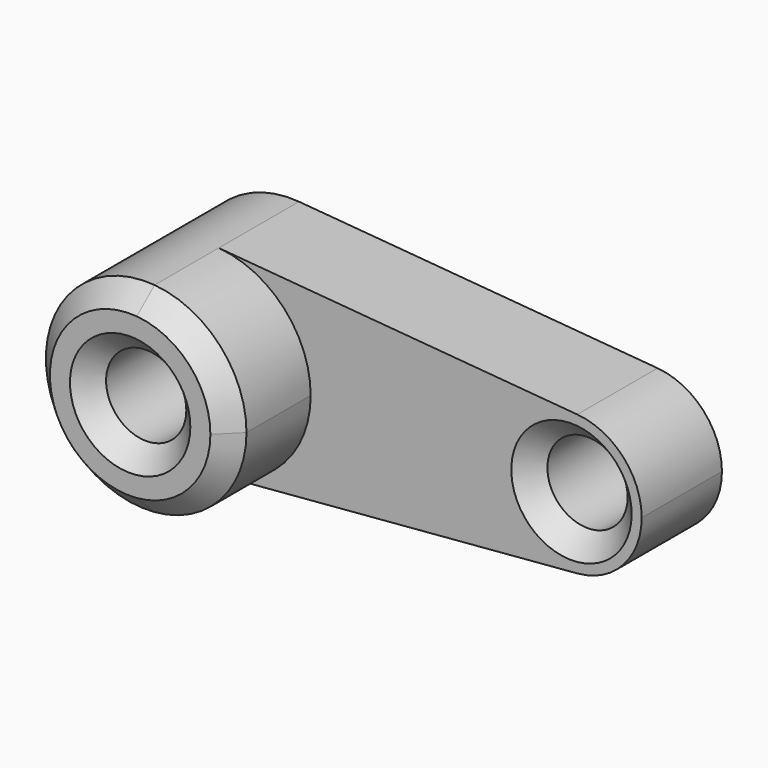
from build123d import *

# Parameters (mm, degrees)
F0_R     = 10
F1_DEPTH = 25
F2_DEPTH = 50
F3_SIZE  = 5


with BuildPart() as f1:
    # F0 (on Front) → F1 (new body)
    with BuildSketch(Plane.XZ):
        with BuildLine():
            ThreePointArc((2.083333, 24.913043), (18.399502, 16.92508), (25, 0))
            ThreePointArc((25, 0), (18.399502, -16.92508), (2.083333, -24.913043))
            Line((2.083333, -24.913043), (91.458333, -17.43913))
            ThreePointArc((91.458333, -17.43913), (72.5, 0), (91.458333, 17.43913))
            Line((91.458333, 17.43913), (2.083333, 24.913043))
        make_face()
        with BuildLine():
            ThreePointArc((107.5, 0), (102.879651, 11.847556), (91.458333, 17.43913))
            ThreePointArc((91.458333, 17.43913), (72.5, 0), (91.458333, -17.43913))
            ThreePointArc((91.458333, -17.43913), (102.879651, -11.847556), (107.5, 0))
        make_face()
        with Locations((90, 0)):
            Circle(F0_R, mode=Mode.SUBTRACT)
        with BuildLine():
            ThreePointArc((2.083333, -24.913043), (18.399502, -16.92508), (25, 0))
            ThreePointArc((25, 0), (18.399502, 16.92508), (2.083333, 24.913043))
            ThreePointArc((2.083333, 24.913043), (-25, 0), (2.083333, -24.913043))
        make_face()
        Circle(F0_R, mode=Mode.SUBTRACT)
    extrude(amount=F1_DEPTH)

    # F0 (on Front) → F2 (join)
    with BuildSketch(Plane.XZ):
        with BuildLine():
            ThreePointArc((2.083333, -24.913043), (18.399502, -16.92508), (25, 0))
            ThreePointArc((25, 0), (18.399502, 16.92508), (2.083333, 24.913043))
            ThreePointArc((2.083333, 24.913043), (-25, 0), (2.083333, -24.913043))
        make_face()
        Circle(F0_R, mode=Mode.SUBTRACT)
    extrude(amount=F2_DEPTH)

    # F3
    f3_edges = [f1.edges().sort_by_distance(p)[0] for p in [
        (-2.083333, -50, 24.913043),
        (-10, -50, 0),
        (80, -25, 0),
    ]]
    chamfer(f3_edges, length=F3_SIZE)


solid = f1.part
